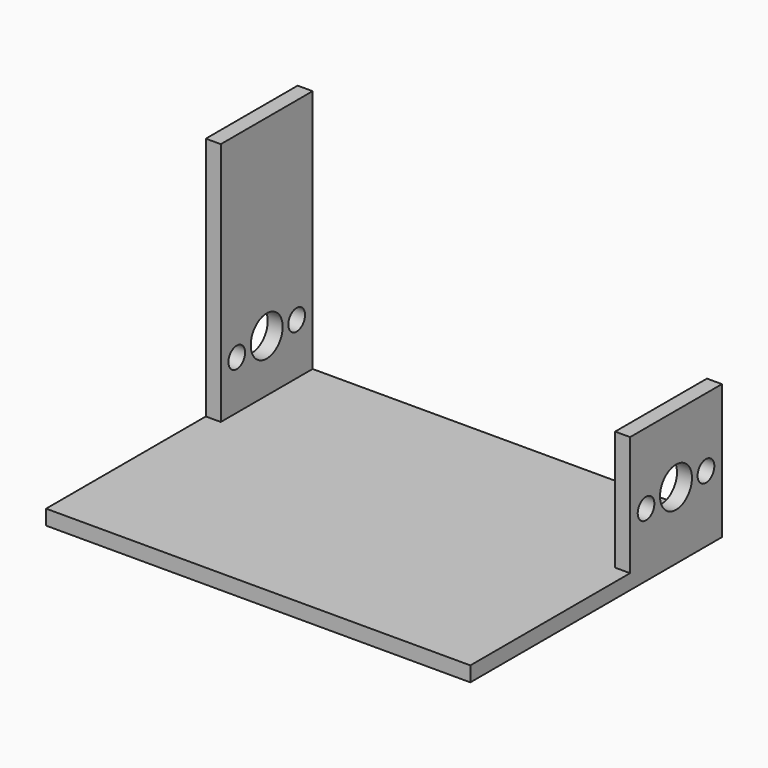
from build123d import *

# Parameters (mm, degrees)
F0_W      = 85
F0_H      = 23
F0_H_2    = 40
F1_DEPTH  = 3
F2_W      = 3
F2_H      = 23
F3_DEPTH  = 24
F4_W      = 3
F4_H      = 23
F5_DEPTH  = 25
F6_R      = 4
F7_DEPTH  = 200
F8_R      = 2.096138
F9_DEPTH  = 101.9
F10_R     = 2.08537
F11_DEPTH = 136.8


with BuildPart() as f1:
    # F0 (on Top) → F1 (new body)
    with BuildSketch(Plane.XY):
        with Locations((42.5, 11.5)):
            Rectangle(F0_W, F0_H)
        with Locations((42.5, -20)):
            Rectangle(F0_W, F0_H_2)
    extrude(amount=F1_DEPTH)

    # F2 (on face) → F3 (join)
    with BuildSketch(Plane.XY.offset(3)):
        with Locations((1.5, 11.5)):
            Rectangle(F2_W, F2_H)
        with Locations((83.5, 11.5)):
            Rectangle(F2_W, F2_H)
    extrude(amount=F3_DEPTH)

    # F4 (on face) → F5 (join)
    with BuildSketch(Plane.XY.offset(27)):
        with Locations((1.5, 11.5)):
            Rectangle(F4_W, F4_H)
    extrude(amount=F5_DEPTH)

    # F6 (on face) → F7 (cut)
    with BuildSketch(Plane.YZ.offset(85)):
        with Locations((11.5, 13.5)):
            Circle(F6_R)
    extrude(amount=-F7_DEPTH, mode=Mode.SUBTRACT)

    # F8 (on Right) → F9 (cut)
    with BuildSketch(Plane.YZ):
        with Locations((19.000002, 13.309989)):
            Circle(F8_R)
    extrude(amount=F9_DEPTH, mode=Mode.SUBTRACT)

    # F10 (on Right) → F11 (cut)
    with BuildSketch(Plane.YZ):
        with Locations((4, 12.777778)):
            Circle(F10_R)
    extrude(amount=F11_DEPTH, mode=Mode.SUBTRACT)


solid = f1.part
